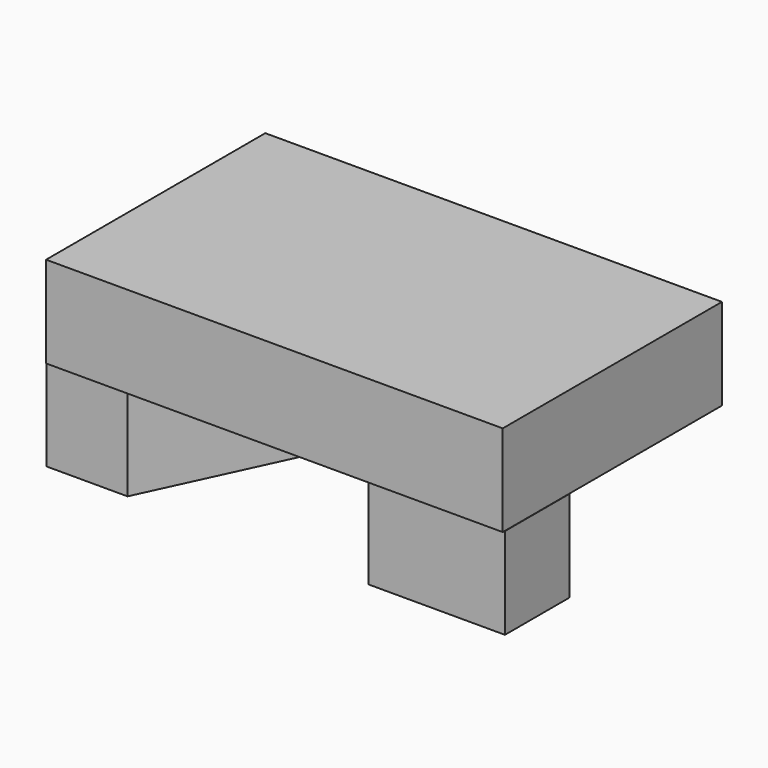
from build123d import *

# Parameters (mm, degrees)
F0_W     = 127
F0_H     = 76.2
F1_DEPTH = 25.4
F3_DEPTH = 25.4


with BuildPart() as f1:
    # F0 (on Top) → F1 (new body)
    with BuildSketch(Plane.XY):
        with Locations((6.21623, 1.518884)):
            Rectangle(F0_W, F0_H)
    extrude(amount=F1_DEPTH)


with BuildPart() as f3:
    # F2 (on Top) → F3 (new body)
    with BuildSketch(Plane.XY):
        Polygon((-57.367429, 38.563348), (-57.367429, -36.261585), (-34.884822, -36.261585), (0, 38.563348), align=None)
        Polygon((31.860426, -35.910297), (69.799833, -35.910297), (69.799833, -13.427687), align=None)
    extrude(amount=-F3_DEPTH)


solid = Compound([f1.part, f3.part])
